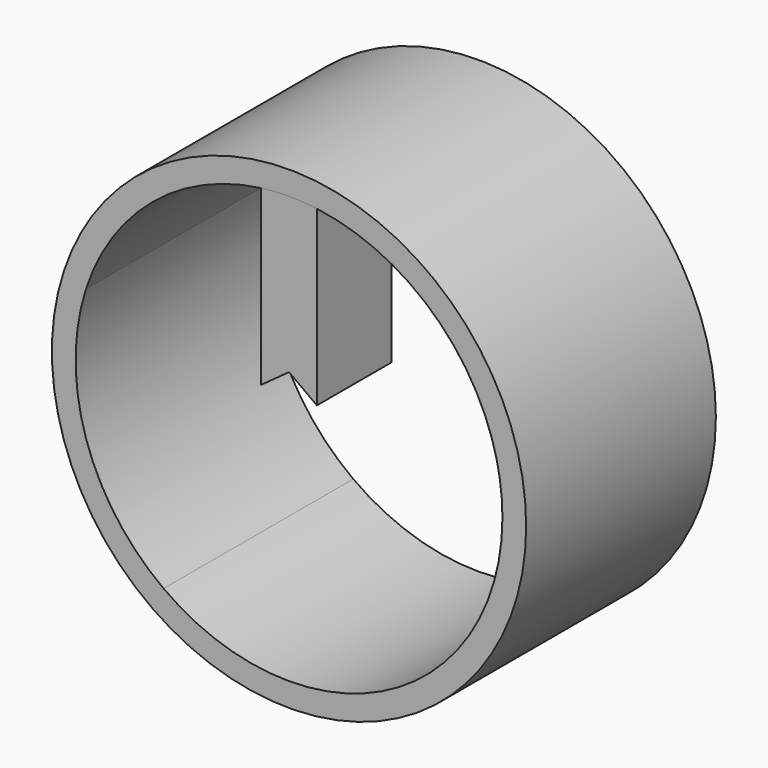
from build123d import *

# Parameters (mm, degrees)
F0_R     = 63.5
F1_DEPTH = 63.5
F2_DEPTH = 25


with BuildPart() as f1:
    # F0 (on Front) → F1 (new body)
    with BuildSketch(Plane.XZ):
        Circle(F0_R)
        with BuildLine():
            ThreePointArc((54.35288, 17.660321), (56.446389, 8.94023), (57.15, 0))
            ThreePointArc((57.15, 0), (50.921023, -25.945557), (33.591927, -46.235321))
            ThreePointArc((33.591927, -46.235321), (0, -57.15), (-33.591927, -46.235321))
            ThreePointArc((-33.591927, -46.235321), (-54.35288, -17.660321), (-54.35288, 17.660321))
            ThreePointArc((-54.35288, 17.660321), (-36.545994, 43.937601), (-7.464873, 56.660376))
            ThreePointArc((-7.464873, 56.660376), (-3.740456, 57.027463), (0, 57.15))
            ThreePointArc((0, 57.15), (3.740456, 57.027463), (7.464873, 56.660376))
            ThreePointArc((7.464873, 56.660376), (36.545994, 43.937601), (54.35288, 17.660321))
        make_face(mode=Mode.SUBTRACT)
    extrude(amount=-F1_DEPTH)


with BuildPart() as f2:
    # F0 (on Front) → F2 (new body)
    with BuildSketch(Plane.XZ):
        Polygon((7.464873, 10.274516), (7.464873, 51.726453), (0, 57.15), (0, 15.698063), align=None)
        Polygon((0, 15.698063), (0, 57.15), (-7.464873, 51.726453), (-7.464873, 10.274516), align=None)
        with BuildLine():
            Line((-7.464873, 51.726453), (0, 57.15))
            ThreePointArc((0, 57.15), (-3.740456, 57.027463), (-7.464873, 56.660376))
            Line((-7.464873, 56.660376), (-7.464873, 51.726453))
        make_face()
        with BuildLine():
            Line((7.464873, 51.726453), (7.464873, 56.660376))
            ThreePointArc((7.464873, 56.660376), (3.740456, 57.027463), (0, 57.15))
            Line((0, 57.15), (7.464873, 51.726453))
        make_face()
    extrude(amount=-F2_DEPTH)


solid = Compound([f1.part, f2.part])
